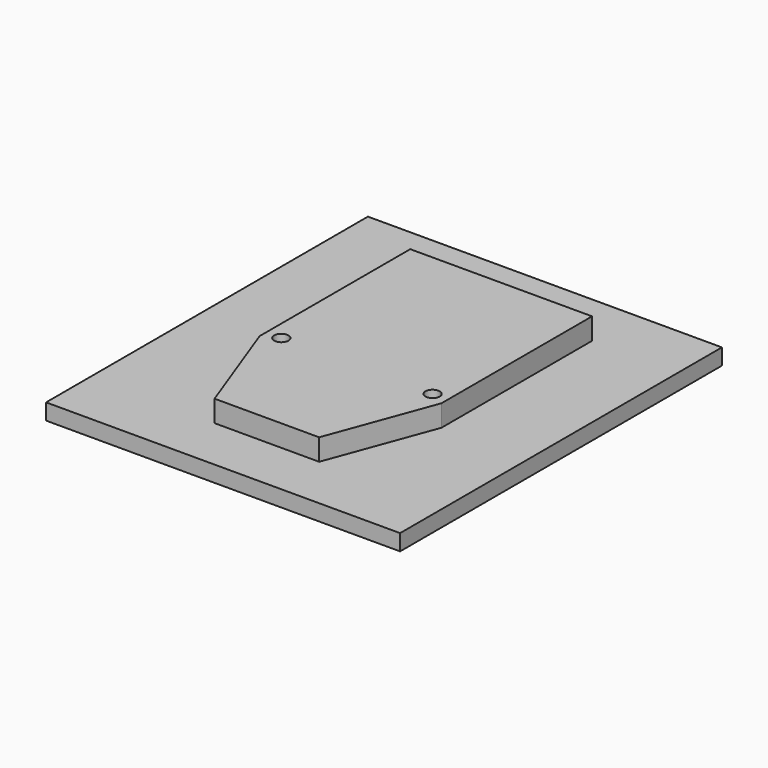
from build123d import *

# Parameters (mm, degrees)
F1_DEPTH  = 13.4
F2_R      = 4.45
F3_DEPTH  = 13.401
F4_W      = 220
F4_H      = 250
F5_DEPTH  = 10
F6_R      = 4.4
F7_DEPTH  = 10
F9_W      = 10
F9_H      = 10
F9_W_2    = 20
F9_H_2    = 20
F10_DEPTH = 7
F11_R     = 5


with BuildPart() as f1:
    # F0 (on Top) → F1 (new body)
    with BuildSketch(Plane.XY):
        Polygon((-56.5, 117), (-56.5, 0), (-32.5, -65), (0, -65), (0, 0), (0, 117), align=None)
        Polygon((56.5, 117), (0, 117), (0, 0), (0, -65), (32.5, -65), (56.5, 0), align=None)
    extrude(amount=F1_DEPTH)

    # F2 (on face) → F3 (cut, through all)
    with BuildSketch(Plane.XY.offset(13.4)):
        with Locations((-47, 5)):
            Circle(F2_R)
        with Locations((47, 5)):
            Circle(F2_R)
    extrude(amount=-F3_DEPTH, mode=Mode.SUBTRACT)


with BuildPart() as f5:
    # F4 (on Top) → F5 (new body)
    with BuildSketch(Plane.XY):
        with Locations((0, 26)):
            Rectangle(F4_W, F4_H)
    extrude(amount=-F5_DEPTH)

    # F6 (on face) → F7 (cut, through all)
    with BuildSketch(Plane(origin=(0, 0, -10), x_dir=(1, 0, 0), z_dir=(0, 0, -1))):
        with Locations((-47, -5)):
            Circle(F6_R)
        with Locations((47, -5)):
            Circle(F6_R)
    extrude(amount=-F7_DEPTH, mode=Mode.SUBTRACT)

    # F9 (on face) → F10 (cut)
    with BuildSketch(Plane(origin=(0, 0, -10), x_dir=(1, 0, 0), z_dir=(0, 0, -1))):
        Polygon((-47, 5), (-57, 5), (-57, -15), (-37, -15), (-37, -5), (-47, -5), align=None)
        with Locations((-42, 0)):
            Rectangle(F9_W, F9_H)
        with Locations((47, -5)):
            Rectangle(F9_W_2, F9_H_2)
    extrude(amount=-F10_DEPTH, mode=Mode.SUBTRACT)

    # F11
    f11_edges = [f5.edges().sort_by_distance(p)[0] for p in [
        (-57, -5, -6.5),
        (-37, -5, -6.5),
        (-37, 15, -6.5),
        (-57, 15, -6.5),
        (57, -5, -6.5),
        (57, 15, -6.5),
        (37, 15, -6.5),
        (37, -5, -6.5),
    ]]
    fillet(f11_edges, radius=F11_R)


solid = Compound([f1.part, f5.part])
